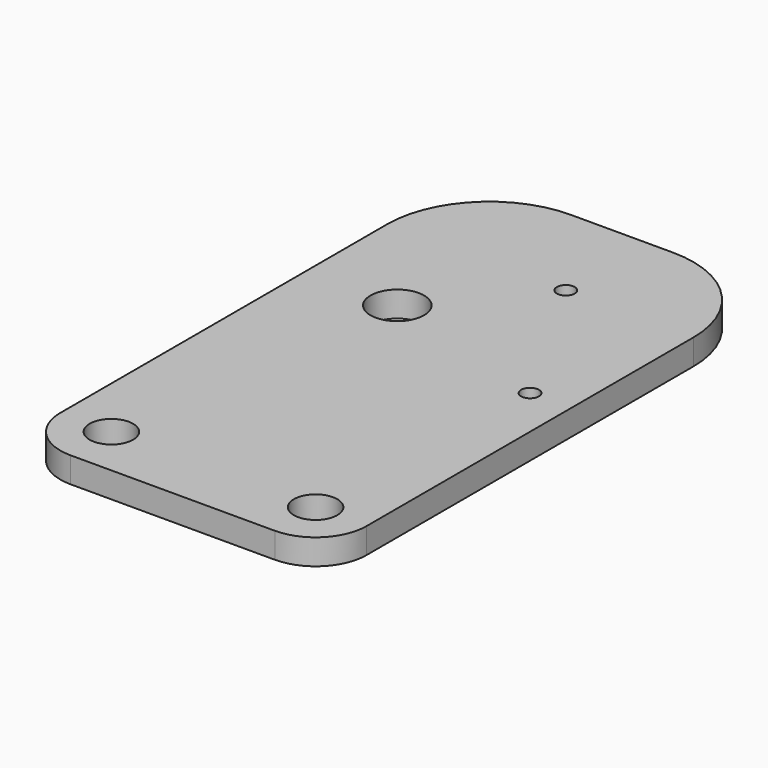
from build123d import *

# Parameters (mm, degrees)
F0_W     = 60
F0_H     = 110
F1_DEPTH = 5
F2_D     = 8.5
F3_D     = 10.5
F4_D     = 3.5
F5_R     = 10
F6_R     = 20


with BuildPart() as f1:
    # F0 (on Top) → F1 (new body)
    with BuildSketch(Plane.XY):
        with Locations((0, 30)):
            Rectangle(F0_W, F0_H)
    extrude(amount=F1_DEPTH)

    # F2 (through all)
    with Locations(Plane(origin=(0, 0, 0), x_dir=(1, 0, 0), z_dir=(0, 0, -1))):
        with Locations((-20, 15), (20, 15)):
            Hole(F2_D / 2)

    # F3 (through all)
    with Locations(Plane(origin=(0, 0, 0), x_dir=(1, 0, 0), z_dir=(0, 0, -1))):
        with Locations((-12, -45)):
            Hole(F3_D / 2)

    # F4 (through all)
    with Locations(Plane(origin=(0, 0, 0), x_dir=(1, 0, 0), z_dir=(0, 0, -1))):
        with Locations((5, -65), (22, -35)):
            Hole(F4_D / 2)

    # F5
    f5_edges = [f1.edges().sort_by_distance(p)[0] for p in [
        (-30, -25, 2.5),
        (30, -25, 2.5),
    ]]
    fillet(f5_edges, radius=F5_R)

    # F6
    f6_edges = [f1.edges().sort_by_distance(p)[0] for p in [
        (-30, 85, 2.5),
        (30, 85, 2.5),
    ]]
    fillet(f6_edges, radius=F6_R)


solid = f1.part
